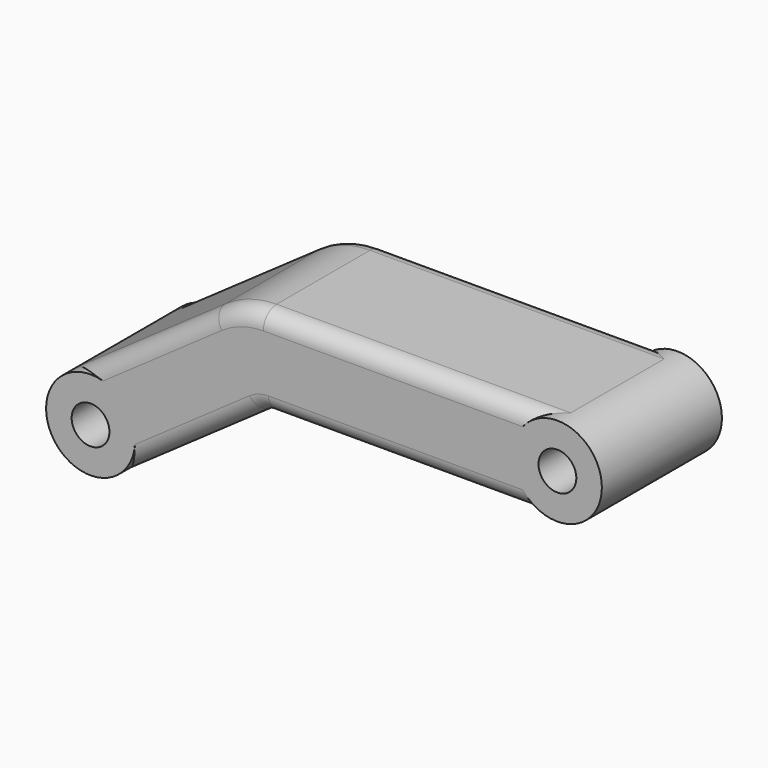
from build123d import *

# Parameters (mm, degrees)
SKETCH007_R   = 1.7
PAD019_DEPTH  = 13.5
FILLET006_R   = 1.5
SKETCH035_R   = 4
SKETCH035_R_2 = 1.7
PAD020_DEPTH  = 13.5


with BuildPart() as part:
    # Sketch007 → Pad019 (new body)
    with BuildSketch(Plane(origin=(0, 19.25, 0), x_dir=(-1, 0, 0), z_dir=(0, 1, 0))):
        with BuildLine():
            ThreePointArc((12, 26), (8, 22), (12, 18))
            Line((12, 18), (37.984377, 18))
            ThreePointArc((38.844741, 17.728728), (38.435435, 17.930575), (37.984377, 18))
            Line((38.844741, 17.728728), (51.705713, 8.723378))
            ThreePointArc((51.705713, 8.723378), (57.276616, 9.705705), (56.294304, 15.27661))
            Line((43.045936, 24.553216), (56.294304, 15.27661))
            ThreePointArc((43.045936, 24.553216), (40.862971, 25.629736), (38.457325, 26))
            Line((12, 26), (38.457325, 26))
        make_face()
        with Locations((12, 22)):
            Circle(SKETCH007_R, mode=Mode.SUBTRACT)
        with Locations((54, 12)):
            Circle(SKETCH007_R, mode=Mode.SUBTRACT)
    extrude(amount=PAD019_DEPTH)

    # Fillet006
    fillet006_edges = [part.edges().sort_by_distance(p)[0] for p in [
        (-49.67012, 32.75, 19.914913),
        (-49.67012, 19.25, 19.914913),
    ]]
    fillet(fillet006_edges, radius=FILLET006_R)

    # Sketch035 (on Face12 of Fillet006) → Pad020 (join)
    with BuildSketch(Plane(origin=(0, 32.75, 0), x_dir=(-1, 0, 0), z_dir=(0, 1, 0))):
        with Locations((54, 12)):
            Circle(SKETCH035_R)
        with Locations((54, 12)):
            Circle(SKETCH035_R_2, mode=Mode.SUBTRACT)
        with Locations((12, 22)):
            Circle(SKETCH035_R)
        with Locations((12, 22)):
            Circle(SKETCH035_R_2, mode=Mode.SUBTRACT)
    extrude(amount=-PAD020_DEPTH)


with BuildPart() as part_1:
    # Body002 placement: moved
    add(part.part.moved(Location((0, -5, 0))))


solid = part_1.part
